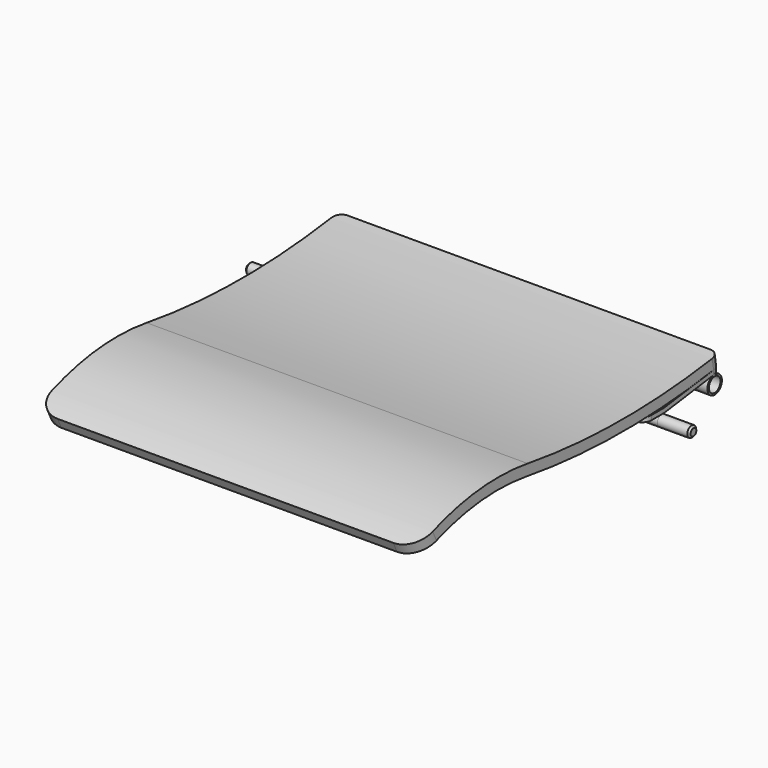
from build123d import *

# Parameters (mm, degrees)
F1_DEPTH  = 210
F3_R      = 25
F4_R      = 10
F5_R      = 10
F5_R_2    = 8
F6_DEPTH  = 210
F8_DEPTH  = 35
F9_R      = 10
F10_DEPTH = 35
F11_SIZE  = 2


with BuildPart() as f1:
    # F0 (on Right) → F1 (new body, symmetric)
    with BuildSketch(Plane.YZ):
        with BuildLine():
            ThreePointArc((-374.3819809216, 0), (-302.5817039416, 21.8999198492), (-227.5169006722, 21.4979572801))
            ThreePointArc((-227.5169006722, 21.4979572801), (-93.5416604475, 11.0228453525), (40.4335797772, 21.4979572801))
            Line((40.4335797772, 21.4979572801), (38.5684952265, 33.352132056))
            ThreePointArc((38.5684952265, 33.352132056), (-93.5416604475, 23.0228453525), (-225.6518161215, 33.352132056))
            ThreePointArc((-225.6518161215, 33.352132056), (-304.3197299479, 33.7733888284), (-379.5664202228, 10.8222728265))
            Line((-379.5664202228, 10.8222728265), (-374.3819809216, 0))
        make_face()
    extrude(amount=F1_DEPTH, both=True)

    # F3
    f3_edges = [f1.edges().sort_by_distance(p)[0] for p in [
        (210, -376.974201, 5.411136),
        (-210, -376.974201, 5.411136),
    ]]
    fillet(f3_edges, radius=F3_R)

    # F4
    f4_edges = [f1.edges().sort_by_distance(p)[0] for p in [
        (210, 39.501038, 27.425045),
        (-210, 39.501038, 27.425045),
    ]]
    fillet(f4_edges, radius=F4_R)


with BuildPart() as f6:
    # F5 (on Right) → F6 (new body, symmetric)
    with BuildSketch(Plane.YZ):
        with Locations((32.0375707172, 5.2150675053)):
            Circle(F5_R)
        with Locations((32.0375707172, 5.2150675053)):
            Circle(F5_R_2, mode=Mode.SUBTRACT)
    extrude(amount=F6_DEPTH, both=True)


with BuildPart() as f8:
    # F7 (on face) → F8 (new body)
    with BuildSketch(Plane.YZ.offset(210)):
        with BuildLine():
            Line((40.6172181352, 16.4573826665), (39.9515511994, 21.4128733113))
            Line((39.9515511994, 21.4128733113), (39.528336846, 21.3560232793))
            ThreePointArc((39.528336846, 21.3560232793), (35.038995934, 20.6666904474), (30.5460851973, 20.0010218445))
            ThreePointArc((30.5460851973, 20.0010218445), (16.7162180368, 18.10343381), (2.8574353356, 16.4300515863))
            Line((2.8574353356, 16.4300515863), (-37.4335001414, 11.0178037421))
            ThreePointArc((-37.4335001414, 11.0178037421), (-37.5663362518, 11.0044558993), (-37.6997669157, 11))
            Line((-37.6997669157, 11), (-65.3339400887, 11))
            Line((-65.3339400887, 11), (-65.3339400887, 6))
            Line((-65.3339400887, 6), (-40.9420840442, 6))
            Line((-40.9420840442, 6), (-37.6997669157, 6))
            ThreePointArc((-37.6997669157, 6), (-37.2327595919, 6.0155956475), (-36.7678332056, 6.0623130973))
            Line((-36.7678332056, 6.0623130973), (40.6172181352, 16.4573826665))
        make_face()
    extrude(amount=-F8_DEPTH)

    # F9
    f9_edges = [f8.edges().sort_by_distance(p)[0] for p in [
        (210, -65.33394, 8.5),
        (175, -65.33394, 8.5),
        (210, 40.284385, 18.935128),
        (175, 40.284385, 18.935128),
    ]]
    fillet(f9_edges, radius=F9_R)

    # F7 (on face) → F10 (join, symmetric)
    with BuildSketch(Plane.YZ.offset(210)):
        with BuildLine():
            ThreePointArc((-34.9420840442, 0), (-36.6994433571, 4.2426406871), (-40.9420840442, 6))
            ThreePointArc((-40.9420840442, 6), (-45.1847247313, -4.2426406871), (-34.9420840442, 0))
        make_face()
    extrude(amount=F10_DEPTH, both=True)

    # F11
    f11_edges = [f8.edges().sort_by_distance(p)[0] for p in [
        (245, -45.184725, -4.242641),
        (245, -36.699443, 4.242641),
    ]]
    chamfer(f11_edges, length=F11_SIZE)


with BuildPart() as f12_1:
    # F12: instance of F8
    add(f8.part.mirror(Plane.YZ))


solid = Compound([f1.part, f6.part, f8.part, f12_1.part])
